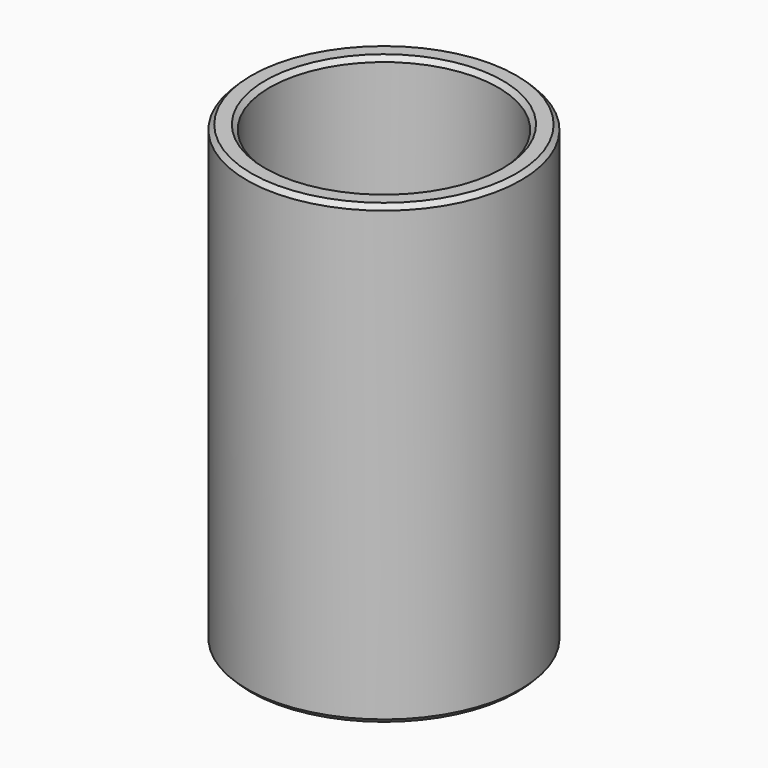
from build123d import *

# Parameters (mm, degrees)
SKETCH004_R   = 15
SKETCH004_R_2 = 12.5
PAD_DEPTH     = 50
CHAMFER_SIZE  = 0.5


with BuildPart() as part:
    # Sketch004 → Pad (new body)
    with BuildSketch(Plane.XY):
        Circle(SKETCH004_R)
        Circle(SKETCH004_R_2, mode=Mode.SUBTRACT)
    extrude(amount=PAD_DEPTH)

    # Chamfer
    chamfer_edges = [part.edges().sort_by_distance(p)[0] for p in [
        (-15, 0, 50),
        (-12.5, 0, 50),
        (-15, 0, 0),
        (-12.5, 0, 0),
    ]]
    chamfer(chamfer_edges, length=CHAMFER_SIZE)


with BuildPart() as part_1:
    # Body001 placement: moved
    add(part.part.moved(Location((0, 0, 22))))


solid = part_1.part
